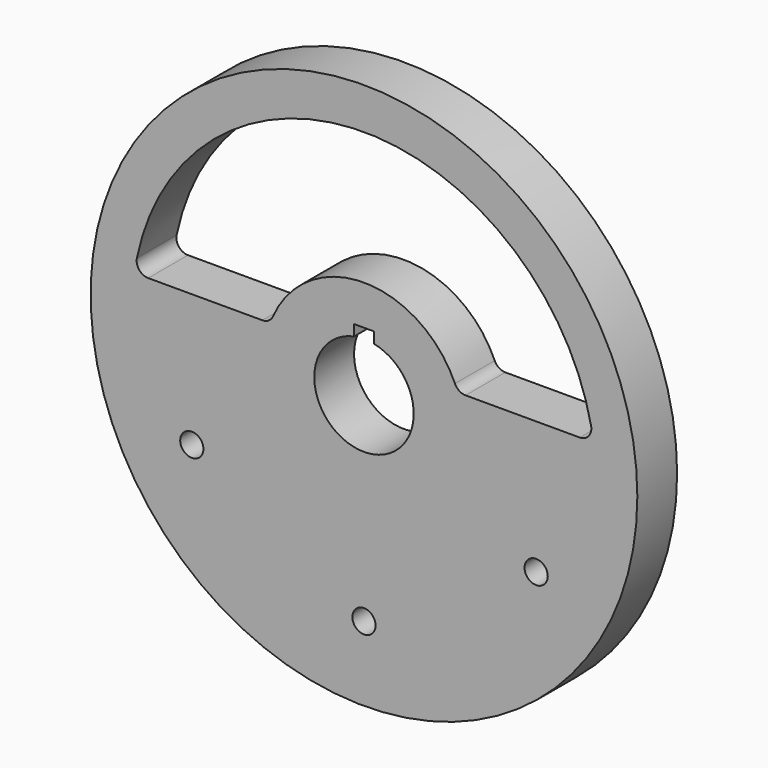
from build123d import *

# Parameters (mm, degrees)
F0_R     = 82.5
F0_R_2   = 3.5
F1_DEPTH = 15
F2_R     = 3.5


with BuildPart() as f1:
    # F0 (on Front) → F1 (new body)
    with BuildSketch(Plane.XZ):
        Circle(F0_R)
        with Locations((-51.961524, -30)):
            Circle(F0_R_2, mode=Mode.SUBTRACT)
        with BuildLine():
            ThreePointArc((0, -56.5), (2.474874, -57.525126), (3.5, -60))
            ThreePointArc((3.5, -60), (-2.474874, -62.474874), (0, -56.5))
        make_face(mode=Mode.SUBTRACT)
        with BuildLine():
            ThreePointArc((55.461524, -30), (51.055658, -33.38074), (48.930435, -28.25))
            ThreePointArc((48.930435, -28.25), (52.867391, -26.61926), (55.461524, -30))
        make_face(mode=Mode.SUBTRACT)
        with BuildLine():
            ThreePointArc((12.990381, -7.5), (-12.170783, -8.767671), (-3, 14.696938))
            Line((-3, 14.696938), (-3, 18))
            Line((-3, 18), (0, 18))
            Line((0, 18), (3, 18))
            Line((3, 18), (3, 14.696938))
            ThreePointArc((3, 14.696938), (13.678417, 6.156371), (12.990381, -7.5))
        make_face(mode=Mode.SUBTRACT)
        with BuildLine():
            Line((-28.284271, 10), (-69.282032, 10))
            ThreePointArc((-69.282032, 10), (0, 70), (69.282032, 10))
            Line((69.282032, 10), (28.284271, 10))
            ThreePointArc((28.284271, 10), (0, 30), (-28.284271, 10))
        make_face(mode=Mode.SUBTRACT)
    extrude(amount=F1_DEPTH)

    # F2
    f2_edges = [f1.edges().sort_by_distance(p)[0] for p in [
        (69.282032, -7.5, 10),
        (-69.282032, -7.5, 10),
        (-28.284271, -7.5, 10),
        (28.284271, -7.5, 10),
    ]]
    fillet(f2_edges, radius=F2_R)


solid = f1.part
